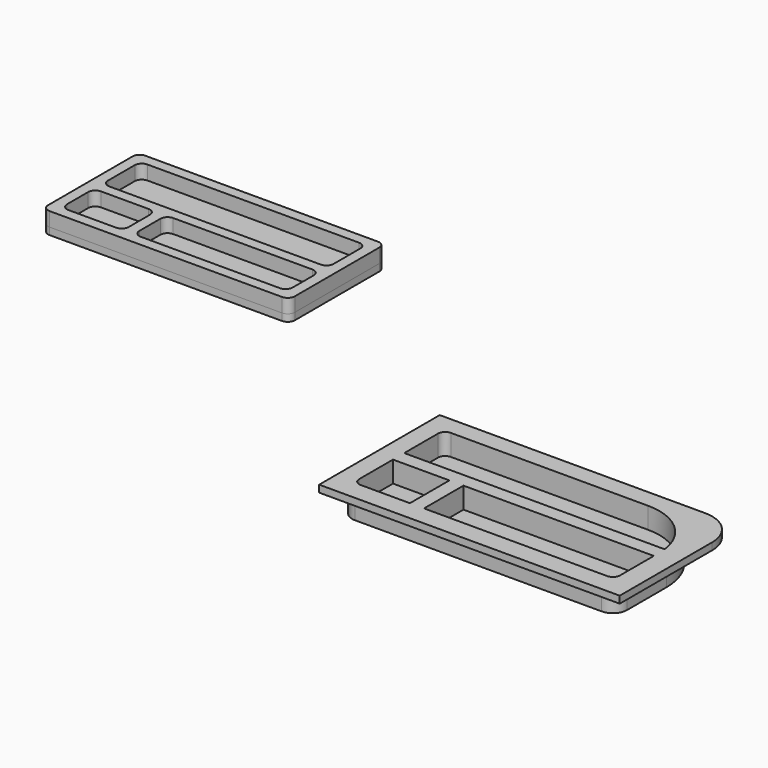
from build123d import *

# Parameters (mm, degrees)
F1_DEPTH  = 3
F2_DEPTH  = 1
F4_DEPTH  = 4
F5_T      = -1
F6_DEPTH  = 4
F7_T      = -1
F8_DEPTH  = 4
F9_T      = -1
F12_DEPTH = 1


with BuildPart() as f1:
    # F0 (on Top) → F1 (new body)
    with BuildSketch(Plane.XY):
        with BuildLine():
            ThreePointArc((-40.3332337737, 3.0328043029), (-40.0403405549, 2.3256975217), (-39.3332337737, 2.0328043029))
            Line((-39.3332337737, 2.0328043029), (-6.3332337737, 2.0328043029))
            ThreePointArc((-6.3332337737, 2.0328043029), (-5.6261269925, 2.3256975217), (-5.3332337737, 3.0328043029))
            Line((-5.3332337737, 3.0328043029), (-5.3332337737, 18.0328043029))
            ThreePointArc((-5.3332337737, 18.0328043029), (-5.6261269925, 18.7399110841), (-6.3332337737, 19.0328043029))
            Line((-6.3332337737, 19.0328043029), (-39.3332337737, 19.0328043029))
            ThreePointArc((-39.3332337737, 19.0328043029), (-40.0403405549, 18.7399110841), (-40.3332337737, 18.0328043029))
            Line((-40.3332337737, 18.0328043029), (-40.3332337737, 3.0328043029))
        make_face()
        with BuildLine():
            ThreePointArc((-37.8332337737, 3.5328043029), (-38.5403405549, 3.8256975217), (-38.8332337737, 4.5328043029))
            Line((-38.8332337737, 4.5328043029), (-38.8332337737, 8.2828043029))
            ThreePointArc((-38.8332337737, 8.2828043029), (-38.5403405549, 8.9899110841), (-37.8332337737, 9.2828043029))
            Line((-37.8332337737, 9.2828043029), (-31.0832337737, 9.2828043029))
            ThreePointArc((-31.0832337737, 9.2828043029), (-30.3761269925, 8.9899110841), (-30.0832337737, 8.2828043029))
            Line((-30.0832337737, 8.2828043029), (-30.0832337737, 4.5328043029))
            ThreePointArc((-30.0832337737, 4.5328043029), (-30.3761269925, 3.8256975217), (-31.0832337737, 3.5328043029))
            Line((-31.0832337737, 3.5328043029), (-37.8332337737, 3.5328043029))
        make_face(mode=Mode.SUBTRACT)
        with BuildLine():
            Line((-6.8332337737, 8.2828043029), (-6.8332337737, 4.5328043029))
            ThreePointArc((-6.8332337737, 4.5328043029), (-7.1261269925, 3.8256975217), (-7.8332337737, 3.5328043029))
            Line((-7.8332337737, 3.5328043029), (-27.5832337737, 3.5328043029))
            ThreePointArc((-27.5832337737, 3.5328043029), (-28.2903405549, 3.8256975217), (-28.5832337737, 4.5328043029))
            Line((-28.5832337737, 4.5328043029), (-28.5832337737, 8.2828043029))
            ThreePointArc((-28.5832337737, 8.2828043029), (-28.2903405549, 8.9899110841), (-27.5832337737, 9.2828043029))
            Line((-27.5832337737, 9.2828043029), (-7.8332337737, 9.2828043029))
            ThreePointArc((-7.8332337737, 9.2828043029), (-7.1261269925, 8.9899110841), (-6.8332337737, 8.2828043029))
        make_face(mode=Mode.SUBTRACT)
        with BuildLine():
            ThreePointArc((-38.8332337737, 16.5328043029), (-38.5403405549, 17.2399110841), (-37.8332337737, 17.5328043029))
            Line((-37.8332337737, 17.5328043029), (-7.8332337737, 17.5328043029))
            ThreePointArc((-7.8332337737, 17.5328043029), (-7.1261269925, 17.2399110841), (-6.8332337737, 16.5328043029))
            Line((-6.8332337737, 16.5328043029), (-6.8332337737, 11.7828043029))
            ThreePointArc((-6.8332337737, 11.7828043029), (-7.1261269925, 11.0756975217), (-7.8332337737, 10.7828043029))
            Line((-7.8332337737, 10.7828043029), (-37.8332337737, 10.7828043029))
            ThreePointArc((-37.8332337737, 10.7828043029), (-38.5403405549, 11.0756975217), (-38.8332337737, 11.7828043029))
            Line((-38.8332337737, 11.7828043029), (-38.8332337737, 16.5328043029))
        make_face(mode=Mode.SUBTRACT)
    extrude(amount=F1_DEPTH)


with BuildPart() as f2:
    # F0 (on Top) → F2 (new body)
    with BuildSketch(Plane.XY):
        with BuildLine():
            ThreePointArc((-40.3332337737, 3.0328043029), (-40.0403405549, 2.3256975217), (-39.3332337737, 2.0328043029))
            Line((-39.3332337737, 2.0328043029), (-6.3332337737, 2.0328043029))
            ThreePointArc((-6.3332337737, 2.0328043029), (-5.6261269925, 2.3256975217), (-5.3332337737, 3.0328043029))
            Line((-5.3332337737, 3.0328043029), (-5.3332337737, 18.0328043029))
            ThreePointArc((-5.3332337737, 18.0328043029), (-5.6261269925, 18.7399110841), (-6.3332337737, 19.0328043029))
            Line((-6.3332337737, 19.0328043029), (-39.3332337737, 19.0328043029))
            ThreePointArc((-39.3332337737, 19.0328043029), (-40.0403405549, 18.7399110841), (-40.3332337737, 18.0328043029))
            Line((-40.3332337737, 18.0328043029), (-40.3332337737, 3.0328043029))
        make_face()
        with BuildLine():
            ThreePointArc((-37.8332337737, 3.5328043029), (-38.5403405549, 3.8256975217), (-38.8332337737, 4.5328043029))
            Line((-38.8332337737, 4.5328043029), (-38.8332337737, 8.2828043029))
            ThreePointArc((-38.8332337737, 8.2828043029), (-38.5403405549, 8.9899110841), (-37.8332337737, 9.2828043029))
            Line((-37.8332337737, 9.2828043029), (-31.0832337737, 9.2828043029))
            ThreePointArc((-31.0832337737, 9.2828043029), (-30.3761269925, 8.9899110841), (-30.0832337737, 8.2828043029))
            Line((-30.0832337737, 8.2828043029), (-30.0832337737, 4.5328043029))
            ThreePointArc((-30.0832337737, 4.5328043029), (-30.3761269925, 3.8256975217), (-31.0832337737, 3.5328043029))
            Line((-31.0832337737, 3.5328043029), (-37.8332337737, 3.5328043029))
        make_face(mode=Mode.SUBTRACT)
        with BuildLine():
            Line((-6.8332337737, 8.2828043029), (-6.8332337737, 4.5328043029))
            ThreePointArc((-6.8332337737, 4.5328043029), (-7.1261269925, 3.8256975217), (-7.8332337737, 3.5328043029))
            Line((-7.8332337737, 3.5328043029), (-27.5832337737, 3.5328043029))
            ThreePointArc((-27.5832337737, 3.5328043029), (-28.2903405549, 3.8256975217), (-28.5832337737, 4.5328043029))
            Line((-28.5832337737, 4.5328043029), (-28.5832337737, 8.2828043029))
            ThreePointArc((-28.5832337737, 8.2828043029), (-28.2903405549, 8.9899110841), (-27.5832337737, 9.2828043029))
            Line((-27.5832337737, 9.2828043029), (-7.8332337737, 9.2828043029))
            ThreePointArc((-7.8332337737, 9.2828043029), (-7.1261269925, 8.9899110841), (-6.8332337737, 8.2828043029))
        make_face(mode=Mode.SUBTRACT)
        with BuildLine():
            ThreePointArc((-38.8332337737, 16.5328043029), (-38.5403405549, 17.2399110841), (-37.8332337737, 17.5328043029))
            Line((-37.8332337737, 17.5328043029), (-7.8332337737, 17.5328043029))
            ThreePointArc((-7.8332337737, 17.5328043029), (-7.1261269925, 17.2399110841), (-6.8332337737, 16.5328043029))
            Line((-6.8332337737, 16.5328043029), (-6.8332337737, 11.7828043029))
            ThreePointArc((-6.8332337737, 11.7828043029), (-7.1261269925, 11.0756975217), (-7.8332337737, 10.7828043029))
            Line((-7.8332337737, 10.7828043029), (-37.8332337737, 10.7828043029))
            ThreePointArc((-37.8332337737, 10.7828043029), (-38.5403405549, 11.0756975217), (-38.8332337737, 11.7828043029))
            Line((-38.8332337737, 11.7828043029), (-38.8332337737, 16.5328043029))
        make_face(mode=Mode.SUBTRACT)
        with BuildLine():
            Line((-7.8332337737, 17.5328043029), (-37.8332337737, 17.5328043029))
            ThreePointArc((-37.8332337737, 17.5328043029), (-38.5403405549, 17.2399110841), (-38.8332337737, 16.5328043029))
            Line((-38.8332337737, 16.5328043029), (-38.8332337737, 11.7828043029))
            ThreePointArc((-38.8332337737, 11.7828043029), (-38.5403405549, 11.0756975217), (-37.8332337737, 10.7828043029))
            Line((-37.8332337737, 10.7828043029), (-7.8332337737, 10.7828043029))
            ThreePointArc((-7.8332337737, 10.7828043029), (-7.1261269925, 11.0756975217), (-6.8332337737, 11.7828043029))
            Line((-6.8332337737, 11.7828043029), (-6.8332337737, 16.5328043029))
            ThreePointArc((-6.8332337737, 16.5328043029), (-7.1261269925, 17.2399110841), (-7.8332337737, 17.5328043029))
        make_face()
        with BuildLine():
            ThreePointArc((-7.8332337737, 3.5328043029), (-7.1261269925, 3.8256975217), (-6.8332337737, 4.5328043029))
            Line((-6.8332337737, 4.5328043029), (-6.8332337737, 8.2828043029))
            ThreePointArc((-6.8332337737, 8.2828043029), (-7.1261269925, 8.9899110841), (-7.8332337737, 9.2828043029))
            Line((-7.8332337737, 9.2828043029), (-27.5832337737, 9.2828043029))
            ThreePointArc((-27.5832337737, 9.2828043029), (-28.2903405549, 8.9899110841), (-28.5832337737, 8.2828043029))
            Line((-28.5832337737, 8.2828043029), (-28.5832337737, 4.5328043029))
            ThreePointArc((-28.5832337737, 4.5328043029), (-28.2903405549, 3.8256975217), (-27.5832337737, 3.5328043029))
            Line((-27.5832337737, 3.5328043029), (-7.8332337737, 3.5328043029))
        make_face()
        with BuildLine():
            Line((-38.8332337737, 8.2828043029), (-38.8332337737, 4.5328043029))
            ThreePointArc((-38.8332337737, 4.5328043029), (-38.5403405549, 3.8256975217), (-37.8332337737, 3.5328043029))
            Line((-37.8332337737, 3.5328043029), (-31.0832337737, 3.5328043029))
            ThreePointArc((-31.0832337737, 3.5328043029), (-30.3761269925, 3.8256975217), (-30.0832337737, 4.5328043029))
            Line((-30.0832337737, 4.5328043029), (-30.0832337737, 8.2828043029))
            ThreePointArc((-30.0832337737, 8.2828043029), (-30.3761269925, 8.9899110841), (-31.0832337737, 9.2828043029))
            Line((-31.0832337737, 9.2828043029), (-37.8332337737, 9.2828043029))
            ThreePointArc((-37.8332337737, 9.2828043029), (-38.5403405549, 8.9899110841), (-38.8332337737, 8.2828043029))
        make_face()
    extrude(amount=F2_DEPTH)


with BuildPart() as f4:
    # F3 (on Top) → F4 (new body)
    with BuildSketch(Plane.XY):
        with BuildLine():
            ThreePointArc((27.8286407689, -28.2518212428), (28.4144272065, -29.6660348052), (29.8286407689, -30.2518212428))
            Line((29.8286407689, -30.2518212428), (37.8286407689, -30.2518212428))
            Line((37.8286407689, -30.2518212428), (37.8286407689, -21.2518212428))
            Line((37.8286407689, -21.2518212428), (27.8286407689, -21.2518212428))
            Line((27.8286407689, -21.2518212428), (27.8286407689, -28.2518212428))
        make_face()
    extrude(amount=F4_DEPTH)

    # F5
    f5_openings = [f4.faces().sort_by_distance(p)[0] for p in [
        (32.872487, -25.71279, 4),
    ]]
    offset(amount=F5_T, openings=f5_openings)


with BuildPart() as f6:
    # F3 (on Top) → F6 (new body)
    with BuildSketch(Plane.XY):
        with BuildLine():
            Line((37.8286407689, -21.2518212428), (37.8286407689, -30.2518212428))
            Line((37.8286407689, -30.2518212428), (64.8286407689, -30.2518212428))
            ThreePointArc((64.8286407689, -30.2518212428), (66.2428543312, -29.6660348052), (66.8286407689, -28.2518212428))
            Line((66.8286407689, -28.2518212428), (66.8286407689, -21.2518212428))
            Line((66.8286407689, -21.2518212428), (37.8286407689, -21.2518212428))
        make_face()
    extrude(amount=F6_DEPTH)

    # F7
    f7_openings = [f6.faces().sort_by_distance(p)[0] for p in [
        (52.282268, -25.738446, 4),
    ]]
    offset(amount=F7_T, openings=f7_openings)


with BuildPart() as f8:
    # F3 (on Top) → F8 (new body)
    with BuildSketch(Plane.XY):
        with BuildLine():
            Line((27.8286407689, -21.2518212428), (37.8286407689, -21.2518212428))
            Line((37.8286407689, -21.2518212428), (66.8286407689, -21.2518212428))
            ThreePointArc((66.8286407689, -21.2518212428), (64.1926017995, -14.8878602122), (57.8286407689, -12.2518212428))
            Line((57.8286407689, -12.2518212428), (29.8286407689, -12.2518212428))
            ThreePointArc((29.8286407689, -12.2518212428), (28.4144272065, -12.8376076805), (27.8286407689, -14.2518212428))
            Line((27.8286407689, -14.2518212428), (27.8286407689, -21.2518212428))
        make_face()
    extrude(amount=F8_DEPTH)

    # F9
    f9_openings = [f8.faces().sort_by_distance(p)[0] for p in [
        (46.464161, -16.892334, 4),
    ]]
    offset(amount=F9_T, openings=f9_openings)


with BuildPart() as f4_1:
    add(f4.part)

    # F10: union F6, F8
    add(f6.part)
    add(f8.part)

    # F11 (on face) → F12 (join)
    with BuildSketch(Plane.XY.offset(4)):
        with BuildLine():
            Line((26.2033231556, -10.6814363971), (26.2033231556, -32.0575349033))
            Line((26.2033231556, -32.0575349033), (68.8400119543, -32.0575349033))
            Line((68.8400119543, -32.0575349033), (68.8400119543, -15.6814363971))
            ThreePointArc((68.8400119543, -15.6814363971), (67.3755458602, -12.1459024912), (63.8400119543, -10.6814363971))
            Line((63.8400119543, -10.6814363971), (26.2033231556, -10.6814363971))
        make_face()
        with BuildLine():
            Line((27.8286407689, -28.2518212428), (27.8286407689, -14.2518212428))
            ThreePointArc((27.8286407689, -14.2518212428), (28.4144272065, -12.8376076805), (29.8286407689, -12.2518212428))
            Line((29.8286407689, -12.2518212428), (57.8286407689, -12.2518212428))
            ThreePointArc((57.8286407689, -12.2518212428), (64.1926017995, -14.8878602122), (66.8286407689, -21.2518212428))
            Line((66.8286407689, -21.2518212428), (66.8286407689, -28.2518212428))
            ThreePointArc((66.8286407689, -28.2518212428), (66.2428543312, -29.6660348052), (64.8286407689, -30.2518212428))
            Line((64.8286407689, -30.2518212428), (29.8286407689, -30.2518212428))
            ThreePointArc((29.8286407689, -30.2518212428), (28.4144272065, -29.6660348052), (27.8286407689, -28.2518212428))
        make_face(mode=Mode.SUBTRACT)
        with BuildLine():
            ThreePointArc((29.8286407689, -12.2518212428), (28.4144272065, -12.8376076805), (27.8286407689, -14.2518212428))
            Line((27.8286407689, -14.2518212428), (27.8286407689, -28.2518212428))
            ThreePointArc((27.8286407689, -28.2518212428), (28.4144272065, -29.6660348052), (29.8286407689, -30.2518212428))
            Line((29.8286407689, -30.2518212428), (64.8286407689, -30.2518212428))
            ThreePointArc((64.8286407689, -30.2518212428), (66.2428543312, -29.6660348052), (66.8286407689, -28.2518212428))
            Line((66.8286407689, -28.2518212428), (66.8286407689, -21.2518212428))
            ThreePointArc((66.8286407689, -21.2518212428), (64.1926017995, -14.8878602122), (57.8286407689, -12.2518212428))
            Line((57.8286407689, -12.2518212428), (29.8286407689, -12.2518212428))
        make_face()
        with BuildLine():
            Line((28.8286407689, -28.2518212428), (28.8286407689, -22.2518212428))
            Line((28.8286407689, -22.2518212428), (36.8286407689, -22.2518212428))
            Line((36.8286407689, -22.2518212428), (36.8286407689, -29.2518212428))
            Line((36.8286407689, -29.2518212428), (29.8286407689, -29.2518212428))
            ThreePointArc((29.8286407689, -29.2518212428), (29.1215339877, -28.958928024), (28.8286407689, -28.2518212428))
        make_face(mode=Mode.SUBTRACT)
        with BuildLine():
            Line((38.8286407689, -22.2518212428), (65.8286407689, -22.2518212428))
            Line((65.8286407689, -22.2518212428), (65.8286407689, -28.2518212428))
            ThreePointArc((65.8286407689, -28.2518212428), (65.53574755, -28.958928024), (64.8286407689, -29.2518212428))
            Line((64.8286407689, -29.2518212428), (38.8286407689, -29.2518212428))
            Line((38.8286407689, -29.2518212428), (38.8286407689, -22.2518212428))
        make_face(mode=Mode.SUBTRACT)
        with BuildLine():
            ThreePointArc((57.8286407689, -13.2518212428), (63.120143391, -15.2518212428), (65.7658947021, -20.2518212428))
            Line((65.7658947021, -20.2518212428), (28.8286407689, -20.2518212428))
            Line((28.8286407689, -20.2518212428), (28.8286407689, -14.2518212428))
            ThreePointArc((28.8286407689, -14.2518212428), (29.1215339877, -13.5447144616), (29.8286407689, -13.2518212428))
            Line((29.8286407689, -13.2518212428), (57.8286407689, -13.2518212428))
        make_face(mode=Mode.SUBTRACT)
    extrude(amount=-F12_DEPTH)


solid = Compound([f1.part, f2.part, f4_1.part])
